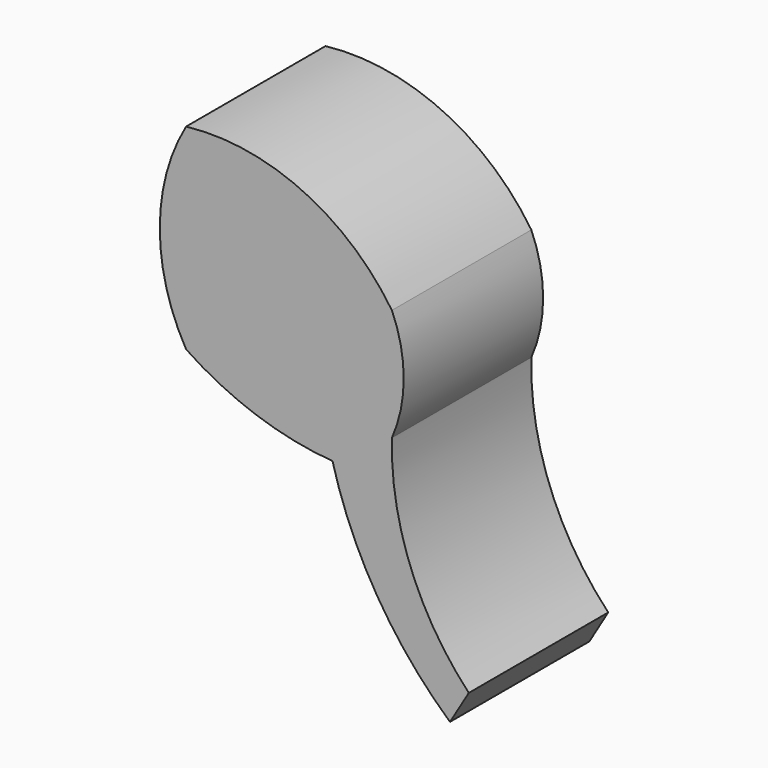
from build123d import *

# Parameters (mm, degrees)
F1_DEPTH = 12.7


with BuildPart() as f1:
    # F0 (on Front) → F1 (new body, symmetric)
    with BuildSketch(Plane.XZ):
        with BuildLine():
            ThreePointArc((29.999215, -30.187189), (31.719714, -22.004222), (29.999215, -13.821255))
            ThreePointArc((29.999215, -13.821255), (16.938376, -2.702505), (0, 0))
            ThreePointArc((0, 0), (-3.830529, -14.291319), (0, -28.582637))
            ThreePointArc((0, -28.582637), (10.192429, -33.65808), (21.339867, -35.977641))
            ThreePointArc((21.339867, -35.977641), (27.859584, -51.18178), (38.460912, -63.88156))
            Line((38.460912, -63.88156), (41.204112, -59.266559))
            ThreePointArc((41.204112, -59.266559), (32.703609, -45.843556), (29.999215, -30.187189))
        make_face()
    extrude(amount=F1_DEPTH, both=True)


solid = f1.part
